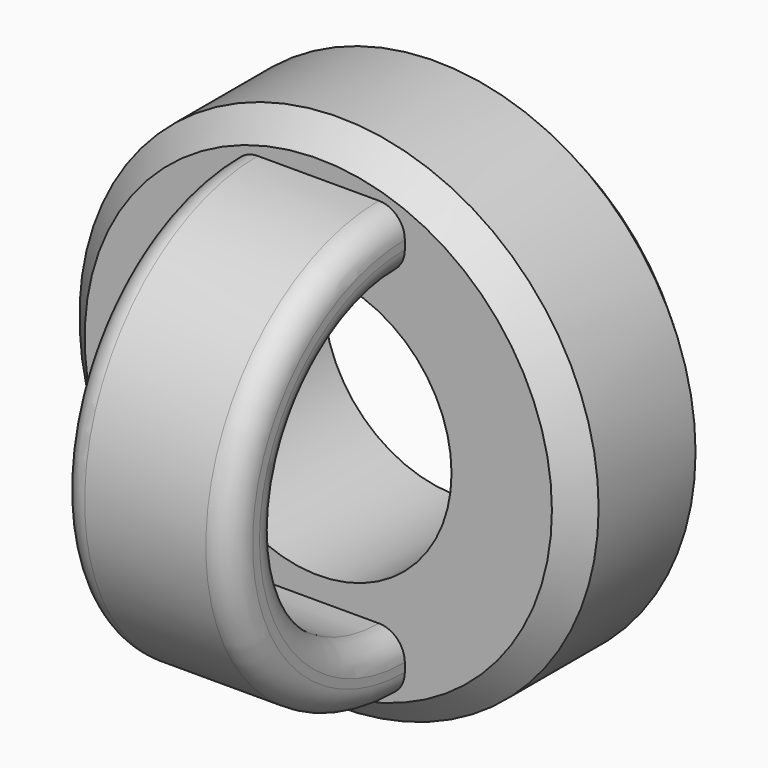
from build123d import *

# Parameters (mm, degrees)
F0_R     = 38.1
F0_R_2   = 19.5559303257
F1_DEPTH = 25.4
F2_W     = 25.4
F2_H     = 8.8900010133
F3_ANGLE = 180
F4_R     = 3.81
F5_SIZE  = 3.81


with BuildPart() as f1:
    # F0 (on Front) → F1 (new body)
    with BuildSketch(Plane.XZ):
        Circle(F0_R)
        Circle(F0_R_2, mode=Mode.SUBTRACT)
    extrude(amount=F1_DEPTH)

    # F2 (on face) → F3 (revolve)
    with BuildSketch(Plane.XZ.offset(25.4)):
        with Locations((0, 27.3050005066)):
            Rectangle(F2_W, F2_H)
    revolve(axis=Axis((9.351817891, -25.4, 0), (1, 0, 0)), revolution_arc=F3_ANGLE)

    # F4
    f4_edges = [f1.edges().sort_by_distance(p)[0] for p in [
        (-12.7, -57.150001, 0),
        (12.7, -57.150001, 0),
        (12.7, -48.26, 0),
        (-12.7, -48.26, 0),
    ]]
    fillet(f4_edges, radius=F4_R)

    # F5
    f5_edges = [f1.edges().sort_by_distance(p)[0] for p in [
        (38.1, -12.7, 0),
        (-38.1, 0, 0),
        (-38.1, -25.4, 0),
    ]]
    chamfer(f5_edges, length=F5_SIZE)


solid = f1.part
